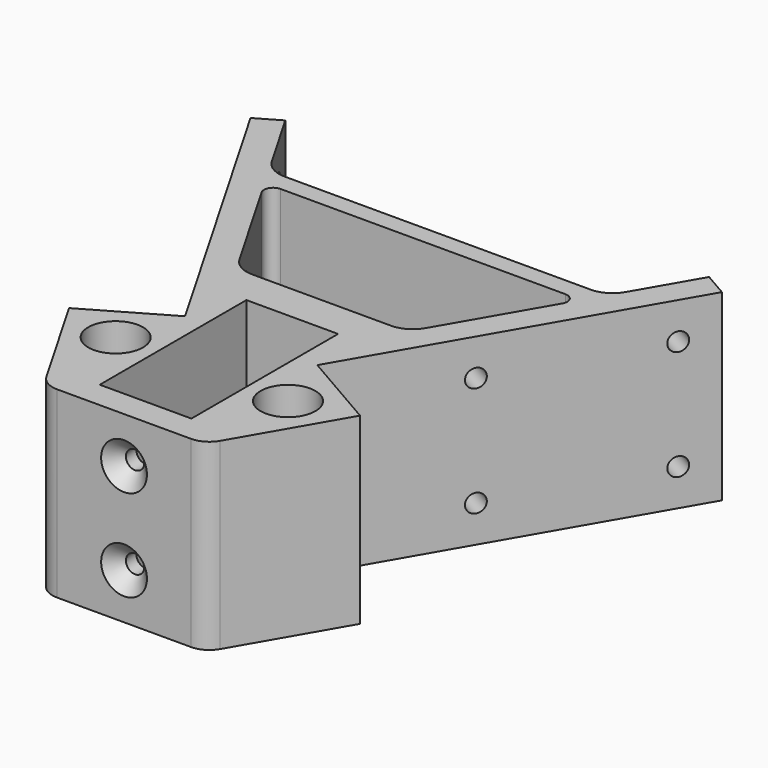
from build123d import *

# Parameters (mm, degrees)
F0_W            = 20
F0_H            = 40
F1_DEPTH        = 40
F2_R            = 5
F3_R            = 6
F4_R            = 2
F5_R            = 5.975
F6_DEPTH        = 40.001
F8_D            = 4
F8_DEPTH        = 40
F8_TIP          = 1.2017212381
F10_D           = 4
F10_DEPTH       = 12
F10_TIP         = 1.2017212381
F12_D           = 4
F12_DEPTH       = 12
F12_TIP         = 1.2017212381
F14_D           = 4
F14_DEPTH       = 12
F14_CSINK_D     = 10
F14_CSINK_ANGLE = 90
F14_TIP         = 1.2017212381


with BuildPart() as f1:
    # F0 (on Top) → F1 (new body)
    with BuildSketch(Plane.XY):
        Polygon((-17.5, 30.3108891325), (17.5, 30.3108891325), (31.75, 54.9926131403), (14.4294919243, 64.9926131403), (51.4294919243, 129.0784930204), (46.2333395016, 132.0784930204), (36.8527810232, 115.8308891325), (-36.8527810232, 115.8308891325), (-46.2333395016, 132.0784930204), (-51.4294919243, 129.0784930204), (-14.4294919243, 64.9926131403), (-31.75, 54.9926131403), align=None)
        with Locations((0, 56.1808891325)):
            Rectangle(F0_W, F0_H, mode=Mode.SUBTRACT)
        Polygon((34.5433799465, 111.8308891325), (18.5796450034, 84.1808891325), (-18.5796450034, 84.1808891325), (-34.5433799465, 111.8308891325), align=None, mode=Mode.SUBTRACT)
    extrude(amount=F1_DEPTH)

    # F2
    f2_edges = [f1.edges().sort_by_distance(p)[0] for p in [
        (-17.5, 30.310889, 20),
        (17.5, 30.310889, 20),
    ]]
    fillet(f2_edges, radius=F2_R)

    # F3
    f3_edges = [f1.edges().sort_by_distance(p)[0] for p in [
        (18.579645, 84.180889, 20),
        (-18.579645, 84.180889, 20),
        (-36.852781, 115.830889, 20),
        (36.852781, 115.830889, 20),
    ]]
    fillet(f3_edges, radius=F3_R)

    # F4
    f4_edges = [f1.edges().sort_by_distance(p)[0] for p in [
        (34.54338, 111.830889, 20),
        (-34.54338, 111.830889, 20),
    ]]
    fillet(f4_edges, radius=F4_R)

    # F5 (on face) → F6 (cut, through all)
    with BuildSketch(Plane.XY.offset(40)):
        with Locations((-18.8069092991, 51.5245224395)):
            Circle(F5_R)
        with Locations((18.8069092991, 51.5245224395)):
            Circle(F5_R)
    extrude(amount=-F6_DEPTH, mode=Mode.SUBTRACT)

    # F8
    with Locations(Plane(origin=(0, 115.8308891325, 0), x_dir=(-1, 0, 0), z_dir=(0, 1, 0))):
        with Locations((0, 20)):
            Hole(F8_D / 2, depth=F8_DEPTH)
            with Locations((0, 0, -(F8_DEPTH + F8_TIP / 2))):  # 118° drill point
                Cone(0, F8_D / 2, F8_TIP, mode=Mode.SUBTRACT)

    # F10
    with Locations(Plane(origin=(-17.3205080757, 10, 0), x_dir=(0.5, 0.8660254038, 0), z_dir=(0.8660254038, -0.5, 0))):
        with Locations((129.5, 32), (92.5, 32), (92.5, 8), (129.5, 8)):
            Hole(F10_D / 2, depth=F10_DEPTH)
            with Locations((0, 0, -(F10_DEPTH + F10_TIP / 2))):  # 118° drill point
                Cone(0, F10_D / 2, F10_TIP, mode=Mode.SUBTRACT)

    # F12
    with Locations(Plane(origin=(17.3205080757, 10, 0), x_dir=(0.5, -0.8660254038, 0), z_dir=(-0.8660254038, -0.5, 0))):
        with Locations((-129.5, 32), (-129.5, 8), (-92.5, 8), (-92.5, 32)):
            Hole(F12_D / 2, depth=F12_DEPTH)
            with Locations((0, 0, -(F12_DEPTH + F12_TIP / 2))):  # 118° drill point
                Cone(0, F12_D / 2, F12_TIP, mode=Mode.SUBTRACT)

    # F14
    with Locations(Plane.XZ.offset(-30.3108891325)):
        with Locations((0, 30), (0, 10)):
            CounterSinkHole(F14_D / 2, F14_CSINK_D / 2, depth=F14_DEPTH, counter_sink_angle=F14_CSINK_ANGLE)
            with Locations((0, 0, -(F14_DEPTH + F14_TIP / 2))):  # 118° drill point
                Cone(0, F14_D / 2, F14_TIP, mode=Mode.SUBTRACT)


solid = f1.part
